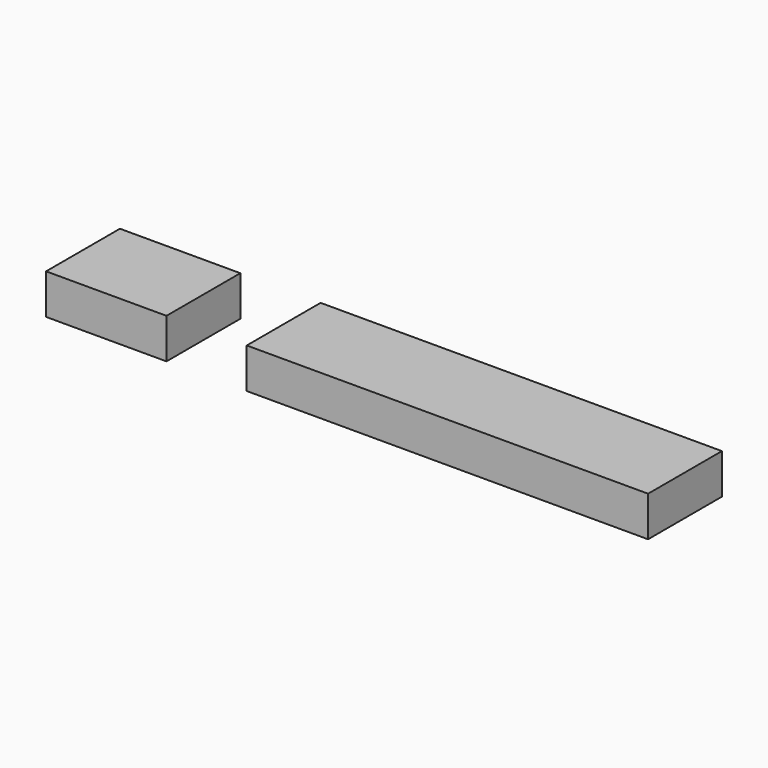
from build123d import *

# Parameters (mm, degrees)
BOX020_W     = 100
BOX020_H     = 23
BOX020_DEPTH = 10
BOX019_W     = 30
BOX019_H     = 23
BOX019_DEPTH = 10


with BuildPart() as box020:
    # Box020 → Box020 (new body)
    with BuildSketch(Plane(origin=(50, 0, 0), x_dir=(1, 0, 0), z_dir=(0, 0, 1))):
        with Locations((50, 11.5)):
            Rectangle(BOX020_W, BOX020_H)
    extrude(amount=BOX020_DEPTH)


with BuildPart() as fusion007:
    # Box019 → Box019 (new body)
    with BuildSketch(Plane.XY):
        with Locations((15, 11.5)):
            Rectangle(BOX019_W, BOX019_H)
    extrude(amount=BOX019_DEPTH)

    # Fusion007: union Box020
    add(box020.part)


solid = fusion007.part
